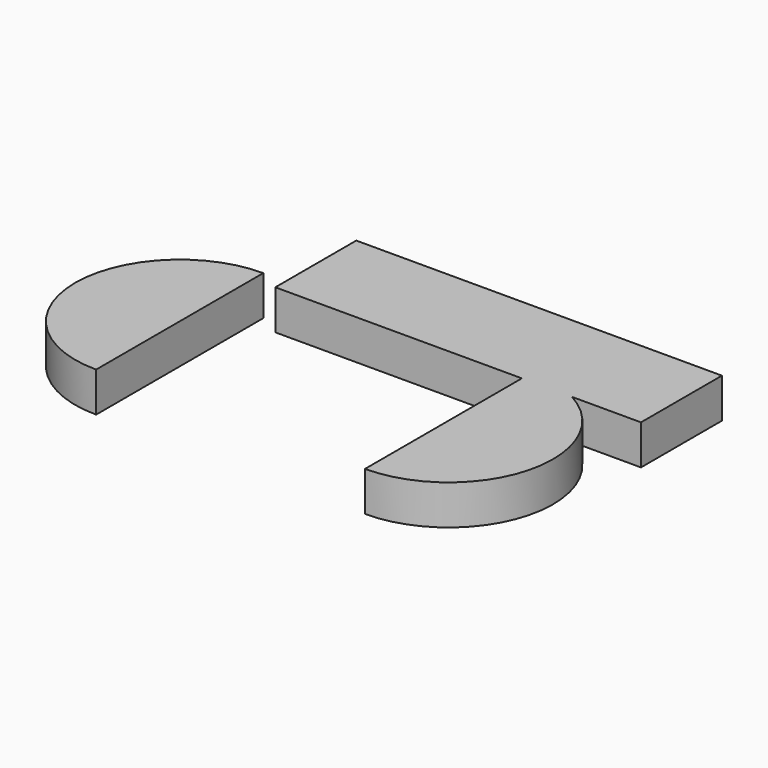
from build123d import *

# Parameters (mm, degrees)
F1_DEPTH = 19


with BuildPart() as f1:
    # F0 (on Top) → F1 (new body)
    with BuildSketch(Plane.XY):
        with BuildLine():
            Line((-128.6791140472, -50), (-128.6791140472, 50))
            ThreePointArc((-128.6791140472, 50), (-178.6791140472, 0), (-128.6791140472, -50))
        make_face()
    extrude(amount=F1_DEPTH)


with BuildPart() as f1b:
    # F0 (on Top) → F1, piece 2 (new body)
    with BuildSketch(Plane.XY):
        with BuildLine():
            ThreePointArc((0, 50), (12.4071363939, 48.4361741522), (24.0381687642, 43.8425186601))
            Line((24.0381687642, 43.8425186601), (57.0090993475, 43.8425186601))
            Line((57.0090993475, 43.8425186601), (57.0090993475, 92.2713543825))
            Line((57.0090993475, 92.2713543825), (-117.9909006525, 92.2713543825))
            Line((-117.9909006525, 92.2713543825), (-117.9909006525, 43.8425186601))
            Line((-117.9909006525, 43.8425186601), (0, 43.8425186601))
            Line((0, 43.8425186601), (0, 50))
        make_face()
        with BuildLine():
            Line((0, 43.8425186601), (0, -50))
            ThreePointArc((0, -50), (48.4361741522, -12.4071363939), (24.0381687642, 43.8425186601))
            Line((24.0381687642, 43.8425186601), (0, 43.8425186601))
        make_face()
        with BuildLine():
            Line((0, 43.8425186601), (24.0381687642, 43.8425186601))
            ThreePointArc((24.0381687642, 43.8425186601), (12.4071363939, 48.4361741522), (0, 50))
            Line((0, 50), (0, 43.8425186601))
        make_face()
    extrude(amount=F1_DEPTH)


solid = Compound([f1.part, f1b.part])
